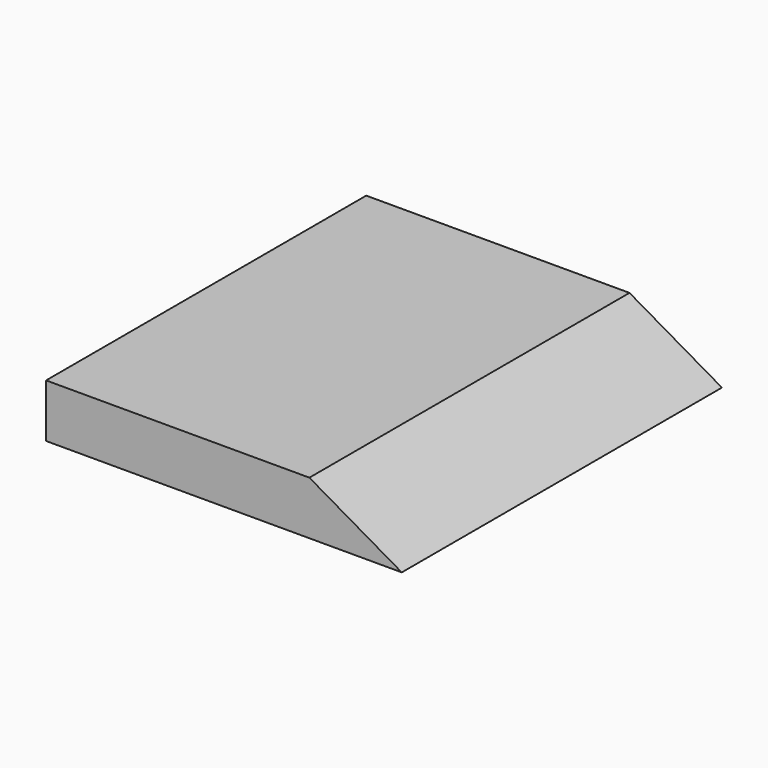
from build123d import *

# Parameters (mm, degrees)
F0_W     = 285.75
F0_H     = 38.1
F1_DEPTH = 127
F3_DEPTH = 203.2


with BuildPart() as f1:
    # F0 (on Right) → F1 (new body, symmetric)
    with BuildSketch(Plane.YZ):
        Rectangle(F0_W, F0_H)
    extrude(amount=F1_DEPTH, both=True)

    # F2 (on Front) → F3 (cut, symmetric)
    with BuildSketch(Plane.XZ):
        Polygon((152.4, 44.45), (17.014774, 44.45), (152.4, -33.714697), align=None)
    extrude(amount=F3_DEPTH, both=True, mode=Mode.SUBTRACT)


solid = f1.part
